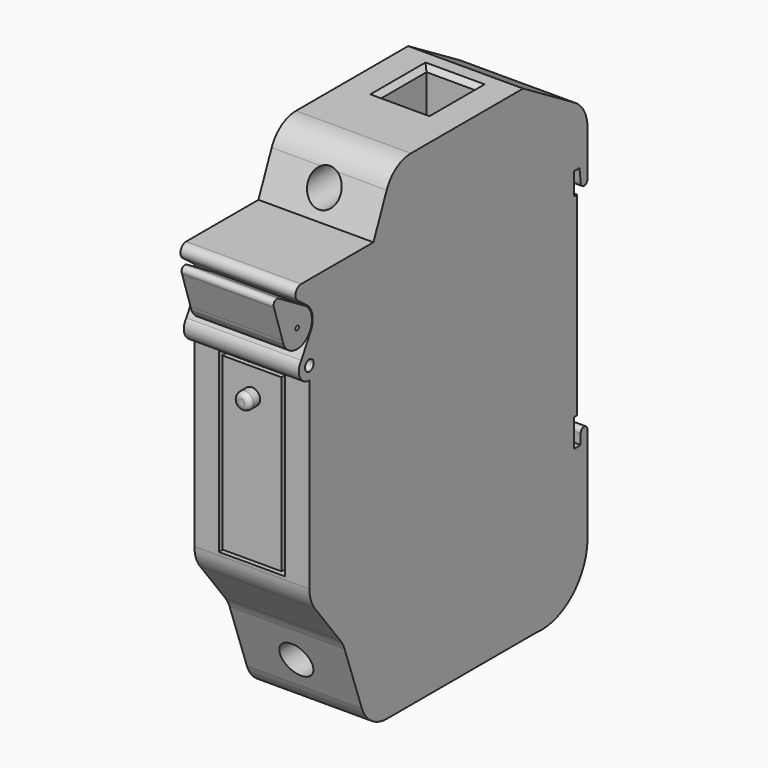
from build123d import *

# Parameters (mm, degrees)
F0_R      = 0.823257
F1_DEPTH  = 17.5
F2_R      = 0.328676
F3_DEPTH  = 14
F4_W      = 7.5
F4_H      = 9
F5_DEPTH  = 73.957461
F6_R      = 2.5
F7_DEPTH  = 25
F8_W      = 10
F8_H      = 27
F8_W_2    = 9
F8_H_2    = 26
F9_DEPTH  = 25
F10_R     = 1.25
F11_DEPTH = 2
F12_R     = 0.75
F13_SIZE  = 0.75


with BuildPart() as f1:
    # F0 (on Right) → F1 (new body)
    with BuildSketch(Plane.YZ):
        with BuildLine():
            Line((0, 11.026559), (0, 0))
            Line((0, 0), (0, -16.894456))
            ThreePointArc((0, -16.894456), (0.267738, -18.508672), (1.042278, -19.950014))
            Line((1.042278, -19.950014), (5.930145, -26.281039))
            ThreePointArc((5.930145, -26.281039), (6.363045, -26.944435), (6.685741, -27.667874))
            Line((6.685741, -27.667874), (9.978654, -36.968724))
            ThreePointArc((9.978654, -36.968724), (11.806111, -39.383113), (14.691972, -40.3))
            Line((14.691972, -40.3), (43.11803, -40.3))
            Line((43.11803, -40.3), (45.108521, -40.3))
            ThreePointArc((45.108521, -40.3), (50.515014, -37.594471), (52.9, -32.039123))
            Line((52.9, -32.039123), (52.9, -31.073859))
            Line((52.9, -31.073859), (52.9, -18.6))
            Line((52.9, -18.6), (51.6, -18.6))
            Line((51.6, -18.6), (50.3, -18.6))
            Line((50.3, -18.6), (50.3, -14.351867))
            Line((50.3, -14.351867), (50.921366, -14.351867))
            Line((50.921366, -14.351867), (50.921366, 15.232199))
            Line((50.921366, 15.232199), (50.3, 15.232199))
            Line((50.3, 15.232199), (50.3, 18.6))
            Line((50.3, 18.6), (51.368345, 18.6))
            Line((51.368345, 18.6), (51.606093, 16.510101))
            ThreePointArc((51.606093, 16.510101), (52.253046, 15.863147), (52.9, 16.510101))
            Line((52.9, 16.510101), (52.9, 23.433136))
            ThreePointArc((52.9, 23.433136), (52.250031, 25.898339), (50.469108, 27.722621))
            Line((50.469108, 27.722621), (40.656004, 33.6))
            Line((40.656004, 33.6), (19.304, 33.6))
            ThreePointArc((19.304, 33.6), (16.540417, 32.766846), (14.69783, 30.545043))
            Line((14.69783, 30.545043), (12.179947, 24.582295))
            Line((12.179947, 24.582295), (0, 24.582295))
            Line((0, 24.582295), (-1.568257, 24.582295))
            ThreePointArc((-1.568257, 24.582295), (-2.617973, 23.784237), (-2.129711, 22.559329))
            Line((-2.129711, 22.559329), (-0.545796, 21.364181))
            ThreePointArc((-0.545796, 21.364181), (0.574179, 19.598821), (0.256078, 17.532508))
            Line((0.256078, 17.532508), (0, 17.076621))
            Line((0, 17.076621), (-1.538252, 14.338122))
            ThreePointArc((-1.538252, 14.338122), (-1.825696, 12.191554), (0, 11.026559))
        make_face()
        with Locations((0, 13.039607)):
            Circle(F0_R, mode=Mode.SUBTRACT)
        with BuildLine():
            Line((0, 17.149476), (0, 17.076621))
            Line((0, 17.076621), (0.256078, 17.532508))
            ThreePointArc((0.256078, 17.532508), (0.135465, 17.336027), (0, 17.149476))
        make_face()
        with BuildLine():
            Line((45.108521, -40.3), (43.11803, -40.3))
            ThreePointArc((43.11803, -40.3), (44.113275, -40.356461), (45.108521, -40.3))
        make_face()
        with BuildLine():
            Line((52.9, -31.073859), (52.9, -32.039123))
            ThreePointArc((52.9, -32.039123), (52.913245, -31.556491), (52.9, -31.073859))
        make_face()
        with BuildLine():
            Line((51.6, -18.6), (52.9, -18.6))
            Line((52.9, -18.6), (52.9, -17.042855))
            ThreePointArc((52.9, -17.042855), (52.25, -16.392855), (51.6, -17.042855))
            Line((51.6, -17.042855), (51.6, -18.6))
        make_face()
    extrude(amount=F1_DEPTH)

    # F4 (on face) → F5 (cut, through all)
    with BuildSketch(Plane.XY.offset(33.6)):
        with Locations((8.75, 33.4)):
            Rectangle(F4_W, F4_H)
    extrude(amount=-F5_DEPTH, mode=Mode.SUBTRACT)

    # F6 (on Front) → F7 (cut)
    with BuildSketch(Plane.XZ):
        with Locations((8.75, -32.675229)):
            Circle(F6_R)
        with Locations((8.75, 28.388606)):
            Circle(F6_R)
    extrude(amount=-F7_DEPTH, mode=Mode.SUBTRACT)

    # F8 (on face) → F9 (cut)
    with BuildSketch(Plane.XZ):
        with Locations((8.75, -2.933948)):
            Rectangle(F8_W, F8_H)
        with Locations((8.75, -2.933948)):
            Rectangle(F8_W_2, F8_H_2, mode=Mode.SUBTRACT)
    extrude(amount=-F9_DEPTH, mode=Mode.SUBTRACT)

    # F10 (on face) → F11 (join)
    with BuildSketch(Plane.XZ):
        with Locations((8.75, 6.018765)):
            Circle(F10_R)
    extrude(amount=F11_DEPTH)

    # F12
    f12_edges = [f1.edges().sort_by_distance(p)[0] for p in [
        (7.5, -2, 6.018765),
    ]]
    fillet(f12_edges, radius=F12_R)

    # F13
    f13_edges = [f1.edges().sort_by_distance(p)[0] for p in [
        (8.75, 37.9, -40.3),
        (12.5, 33.4, -40.3),
        (8.75, 28.9, -40.3),
        (5, 33.4, -40.3),
        (5, 33.4, 33.6),
        (8.75, 28.9, 33.6),
        (12.5, 33.4, 33.6),
        (8.75, 37.9, 33.6),
    ]]
    chamfer(f13_edges, length=F13_SIZE)


with BuildPart() as f3:
    # F2 (on face) → F3 (new body)
    with BuildSketch(Plane.YZ.offset(17.5)):
        with BuildLine():
            Line((-4.924123, 17.856974), (-5.10003, 18.404983))
            ThreePointArc((-5.10003, 18.404983), (-5.026076, 18.126485), (-4.924123, 17.856974))
        make_face()
        with BuildLine():
            Line((-6.73369, 23.494389), (-5.10003, 18.404983))
            Line((-5.10003, 18.404983), (-4.924123, 17.856974))
            ThreePointArc((-4.924123, 17.856974), (-0.3457, 16.988353), (-1.193371, 21.570701))
            Line((-1.193371, 21.570701), (-5.773895, 24.335074))
            ThreePointArc((-5.773895, 24.335074), (-6.602514, 24.31286), (-6.73369, 23.494389))
        make_face()
        with Locations((-2.337661, 18.989446)):
            Circle(F2_R, mode=Mode.SUBTRACT)
    extrude(amount=-F3_DEPTH)


solid = Compound([f1.part, f3.part])
